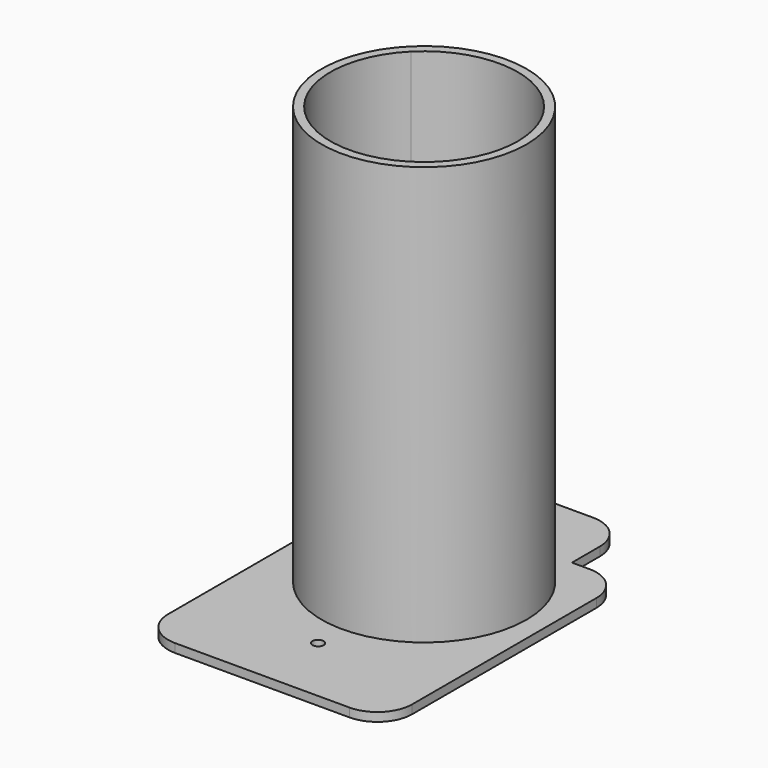
from build123d import *

# Parameters (mm, degrees)
F0_W     = 24.13
F0_H     = 24.13
F0_W_2   = 44.45
F0_H_2   = 19.05
F0_R     = 1.016
F1_DEPTH = 1.5875
F2_R     = 6.35
F3_R     = 18.649987
F4_DEPTH = 76.2


with BuildPart() as f1:
    # F0 (on Top) → F1 (new body)
    with BuildSketch(Plane.XY):
        with BuildLine():
            Line((0, 17.78), (12.7, 17.78))
            Line((12.7, 17.78), (12.7, 30.48))
            Line((12.7, 30.48), (0, 30.48))
            Line((0, 30.48), (0, 25.146))
            ThreePointArc((0, 25.146), (0.71842, 24.84842), (1.016, 24.13))
            ThreePointArc((1.016, 24.13), (0.71842, 23.41158), (0, 23.114))
            Line((0, 23.114), (0, 17.78))
        make_face()
        with BuildLine():
            Line((-12.7, 30.48), (-12.7, 17.78))
            Line((-12.7, 17.78), (0, 17.78))
            Line((0, 17.78), (0, 23.114))
            ThreePointArc((0, 23.114), (-1.016, 24.13), (0, 25.146))
            Line((0, 25.146), (0, 30.48))
            Line((0, 30.48), (-12.7, 30.48))
        make_face()
        Polygon((-22.225, -17.78), (22.225, -17.78), (22.225, 17.78), (12.7, 17.78), (0, 17.78), (-12.7, 17.78), (-22.225, 17.78), align=None)
        Rectangle(F0_W, F0_H, mode=Mode.SUBTRACT)
        with Locations((0, -27.305)):
            Rectangle(F0_W_2, F0_H_2)
        with Locations((0, -24.13)):
            Circle(F0_R, mode=Mode.SUBTRACT)
    extrude(amount=F1_DEPTH)

    # F2
    f2_edges = [f1.edges().sort_by_distance(p)[0] for p in [
        (-12.7, 30.48, 0.79375),
        (-22.225, 17.78, 0.79375),
        (12.7, 30.48, 0.79375),
        (22.225, 17.78, 0.79375),
        (22.225, -36.83, 0.79375),
        (-22.225, -36.83, 0.79375),
    ]]
    fillet(f2_edges, radius=F2_R)

    # F3 (on face) → F4 (join)
    with BuildSketch(Plane.XY.offset(1.5875)):
        Circle(F3_R)
        with BuildLine():
            ThreePointArc((12.065, 12.065), (15.763682, 6.529531), (17.062487, 0))
            ThreePointArc((17.062487, 0), (15.763682, -6.529531), (12.065, -12.065))
            ThreePointArc((12.065, -12.065), (0, -17.062487), (-12.065, -12.065))
            ThreePointArc((-12.065, -12.065), (-17.062487, 0), (-12.065, 12.065))
            ThreePointArc((-12.065, 12.065), (0, 17.062487), (12.065, 12.065))
        make_face(mode=Mode.SUBTRACT)
    extrude(amount=F4_DEPTH)


solid = f1.part
